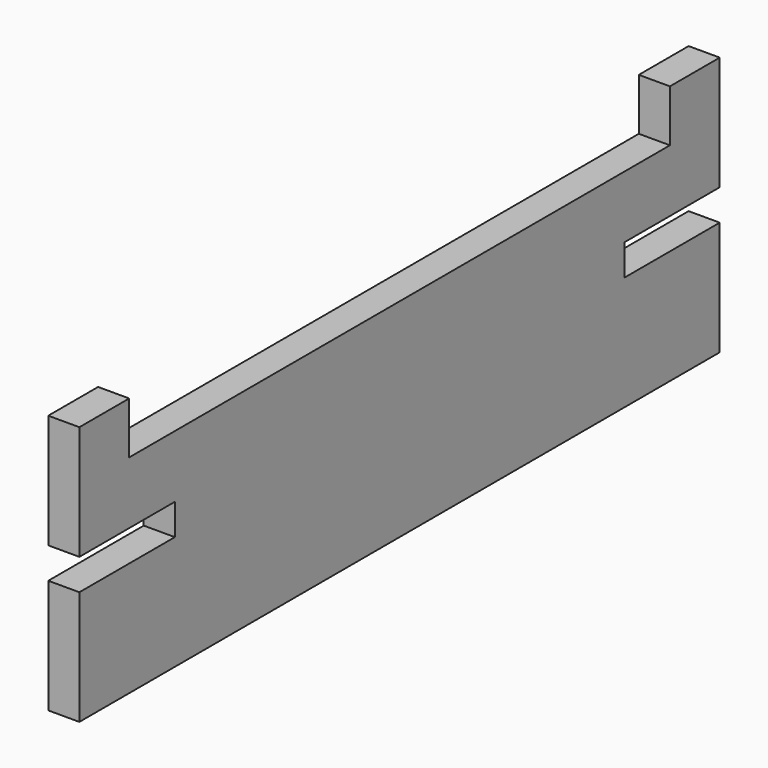
from build123d import *

# Parameters (mm, degrees)
F0_W     = 19.05
F0_H     = 127
F1_DEPTH = 244.871875
F2_W     = 19.05
F2_H     = 38.1
F3_DEPTH = 31.75
F6_DEPTH = 12.7


with BuildPart() as f1:
    # F0 (on Front) → F1 (new body, symmetric)
    with BuildSketch(Plane.XZ):
        Rectangle(F0_W, F0_H)
    extrude(amount=F1_DEPTH, both=True)

    # F2 (on face) → F3 (join)
    with BuildSketch(Plane.XY.offset(63.5)):
        with Locations((0, 225.821875)):
            Rectangle(F2_W, F2_H)
    extrude(amount=F3_DEPTH)

    # F4: F1 across plane


with BuildPart() as f1_1:
    add(f1.part)
    add(f1.part.mirror(Plane.XZ))

    # F5 (on Right) → F6 (cut, symmetric)
    with BuildSketch(Plane.YZ):
        Polygon((-244.871875, 6.35), (-216.296875, 6.35), (-171.846875, 6.35), (-171.846875, 25.4), (-216.296875, 25.4), (-244.871875, 25.4), align=None)
        Polygon((216.296875, 25.4), (171.846875, 25.4), (171.846875, 6.35), (216.296875, 6.35), (244.871875, 6.35), (244.871875, 25.4), align=None)
    extrude(amount=F6_DEPTH, both=True, mode=Mode.SUBTRACT)


solid = f1_1.part
